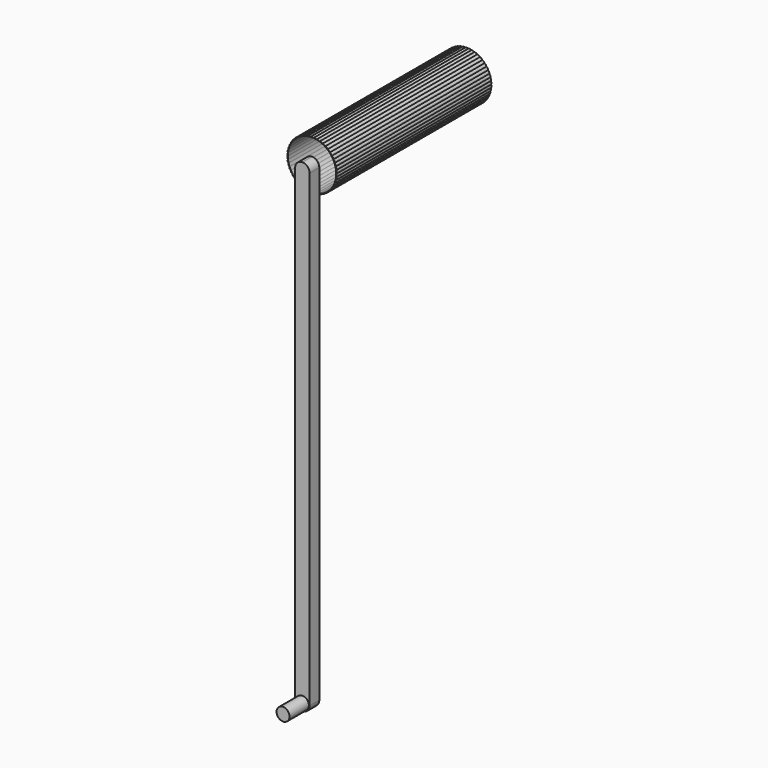
from build123d import *

# Parameters (mm, degrees)
F1_DEPTH = 6.35
F2_R     = 3.4021861277
F3_DEPTH = 12.7
F5_DEPTH = 101.6


with BuildPart() as f1:
    # F0 (on Front) → F1 (new body)
    with BuildSketch(Plane.XZ):
        with BuildLine():
            Line((3.81, -123.19), (3.81, 123.19))
            ThreePointArc((3.81, 123.19), (2.6940768363, 125.8840768363), (0, 127))
            ThreePointArc((0, 127), (-2.6940768363, 125.8840768363), (-3.81, 123.19))
            Line((-3.81, 123.19), (-3.81, -123.19))
            ThreePointArc((-3.81, -123.19), (-2.6940768363, -125.8840768363), (0, -127))
            ThreePointArc((0, -127), (2.6940768363, -125.8840768363), (3.81, -123.19))
        make_face()
    extrude(amount=F1_DEPTH)

    # F2 (on face) → F3 (join)
    with BuildSketch(Plane.XZ.offset(6.35)):
        with Locations((0, -123.19)):
            Circle(F2_R)
    extrude(amount=F3_DEPTH)

    # F4 (on face) → F5 (join)
    with BuildSketch(Plane(origin=(0, 0, 0), x_dir=(-1, 0, 0), z_dir=(0, 1, 0))):
        with BuildLine():
            ThreePointArc((12.6998142695, 123.2586842143), (12.6999535673, 123.2243422327), (12.7, 123.19))
            ThreePointArc((12.7, 123.19), (12.6999535673, 123.1556577673), (12.6998142695, 123.1213157857))
            ThreePointArc((12.6998142695, 123.1213157857), (12.7266922226, 123.1552100406), (12.7524002682, 123.19))
            ThreePointArc((12.7524002682, 123.19), (12.7266922226, 123.2247899594), (12.6998142695, 123.2586842143))
        make_face()
        with BuildLine():
            ThreePointArc((12.6082808554, 124.7135661693), (12.674939451, 123.987439598), (12.6998142695, 123.2586842143))
            ThreePointArc((12.6998142695, 123.2586842143), (12.7266922226, 123.2247899594), (12.7524002682, 123.19))
            ThreePointArc((12.7524002682, 123.19), (12.927890191, 123.5402156166), (12.9883026678, 123.9272531131))
            ThreePointArc((12.9883026678, 123.9272531131), (12.9012010608, 124.3894775086), (12.6518437831, 124.7882995613))
            ThreePointArc((12.6518437831, 124.7882995613), (12.6306987912, 124.7505618587), (12.6082808554, 124.7135661693))
        make_face()
        with BuildLine():
            ThreePointArc((12.7524002682, 123.19), (12.7266922226, 123.1552100406), (12.6998142695, 123.1213157857))
            ThreePointArc((12.6998142695, 123.1213157857), (12.674939451, 122.392560402), (12.6082808554, 121.6664338307))
            ThreePointArc((12.6082808554, 121.6664338307), (12.6306987912, 121.6294381413), (12.6518437831, 121.5917004387))
            ThreePointArc((12.6518437831, 121.5917004387), (12.9012010608, 121.9905224914), (12.9883026678, 122.4527468869))
            ThreePointArc((12.9883026678, 122.4527468869), (12.927890191, 122.8397843834), (12.7524002682, 123.19))
        make_face()
        with BuildLine():
            ThreePointArc((12.591064026, 124.8498514069), (12.5998567067, 124.7817320663), (12.6082808554, 124.7135661693))
            ThreePointArc((12.6082808554, 124.7135661693), (12.6306987912, 124.7505618587), (12.6518437831, 124.7882995613))
            ThreePointArc((12.6518437831, 124.7882995613), (12.621978115, 124.819593119), (12.591064026, 124.8498514069))
        make_face()
        with BuildLine():
            ThreePointArc((12.6518437831, 121.5917004387), (12.6306987912, 121.6294381413), (12.6082808554, 121.6664338307))
            ThreePointArc((12.6082808554, 121.6664338307), (12.5998567067, 121.5982679337), (12.591064026, 121.5301485931))
            ThreePointArc((12.591064026, 121.5301485931), (12.621978115, 121.560406881), (12.6518437831, 121.5917004387))
        make_face()
        with BuildLine():
            ThreePointArc((12.3179073204, 126.2817890042), (12.4750480843, 125.5697426952), (12.591064026, 124.8498514069))
            ThreePointArc((12.591064026, 124.8498514069), (12.621978115, 124.819593119), (12.6518437831, 124.7882995613))
            ThreePointArc((12.6518437831, 124.7882995613), (12.7650009986, 125.0798092799), (12.8034980346, 125.3901324174))
            ThreePointArc((12.8034980346, 125.3901324174), (12.6850389379, 125.9257195232), (12.3517601638, 126.3613929838))
            ThreePointArc((12.3517601638, 126.3613929838), (12.3355116947, 126.321302684), (12.3179073204, 126.2817890042))
        make_face()
        with BuildLine():
            ThreePointArc((12.6518437831, 121.5917004387), (12.621978115, 121.560406881), (12.591064026, 121.5301485931))
            ThreePointArc((12.591064026, 121.5301485931), (12.4750480843, 120.8102573048), (12.3179073204, 120.0982109958))
            ThreePointArc((12.3179073204, 120.0982109958), (12.3355116947, 120.058697316), (12.3517601638, 120.0186070162))
            ThreePointArc((12.3517601638, 120.0186070162), (12.6850389379, 120.4542804768), (12.8034980346, 120.9898675826))
            ThreePointArc((12.8034980346, 120.9898675826), (12.7650009986, 121.3001907201), (12.6518437831, 121.5917004387))
        make_face()
        with BuildLine():
            ThreePointArc((12.2837451813, 126.4148417511), (12.3010061463, 126.348361567), (12.3179073204, 126.2817890042))
            ThreePointArc((12.3179073204, 126.2817890042), (12.3355116947, 126.321302684), (12.3517601638, 126.3613929838))
            ThreePointArc((12.3517601638, 126.3613929838), (12.3182078726, 126.3886966216), (12.2837451813, 126.4148417511))
        make_face()
        with BuildLine():
            ThreePointArc((12.3517601638, 120.0186070162), (12.3355116947, 120.058697316), (12.3179073204, 120.0982109958))
            ThreePointArc((12.3179073204, 120.0982109958), (12.3010061463, 120.031638433), (12.2837451813, 119.9651582489))
            ThreePointArc((12.2837451813, 119.9651582489), (12.3182078726, 119.9913033784), (12.3517601638, 120.0186070162))
        make_face()
        with BuildLine():
            ThreePointArc((11.8332730286, 127.8012524797), (12.0784177569, 127.1145158286), (12.2837451813, 126.4148417511))
            ThreePointArc((12.2837451813, 126.4148417511), (12.3182078726, 126.3886966216), (12.3517601638, 126.3613929838))
            ThreePointArc((12.3517601638, 126.3613929838), (12.4153614728, 126.5859302444), (12.4368032475, 126.8183143191))
            ThreePointArc((12.4368032475, 126.8183143191), (12.2824420553, 127.4251504177), (11.856881908, 127.8844716444))
            ThreePointArc((11.856881908, 127.8844716444), (11.8457862099, 127.8426609954), (11.8332730286, 127.8012524797))
        make_face()
        with BuildLine():
            ThreePointArc((12.3517601638, 120.0186070162), (12.3182078726, 119.9913033784), (12.2837451813, 119.9651582489))
            ThreePointArc((12.2837451813, 119.9651582489), (12.0784177569, 119.2654841714), (11.8332730286, 118.5787475203))
            ThreePointArc((11.8332730286, 118.5787475203), (11.8457862099, 118.5373390046), (11.856881908, 118.4955283556))
            ThreePointArc((11.856881908, 118.4955283556), (12.2824420553, 118.9548495823), (12.4368032475, 119.5616856809))
            ThreePointArc((12.4368032475, 119.5616856809), (12.4153614728, 119.7940697556), (12.3517601638, 120.0186070162))
        make_face()
        with BuildLine():
            ThreePointArc((11.7827043372, 127.9289744146), (11.8081613708, 127.8651818191), (11.8332730286, 127.8012524797))
            ThreePointArc((11.8332730286, 127.8012524797), (11.8457862099, 127.8426609954), (11.856881908, 127.8844716444))
            ThreePointArc((11.856881908, 127.8844716444), (11.8201721335, 127.9073547678), (11.7827043372, 127.9289744146))
        make_face()
        with BuildLine():
            ThreePointArc((11.1620209523, 129.2479937489), (11.4913035663, 128.5973970029), (11.7827043372, 127.9289744146))
            ThreePointArc((11.7827043372, 127.9289744146), (11.8201721335, 127.9073547678), (11.856881908, 127.8844716444))
            ThreePointArc((11.856881908, 127.8844716444), (11.8846873001, 128.0357476383), (11.8940013026, 128.1892755365))
            ThreePointArc((11.8940013026, 128.1892755365), (11.6993350981, 128.8649657231), (11.1750135416, 129.3335156828))
            ThreePointArc((11.1750135416, 129.3335156828), (11.1692456003, 129.2906440636), (11.1620209523, 129.2479937489))
        make_face()
        with BuildLine():
            ThreePointArc((11.856881908, 118.4955283556), (11.8457862099, 118.5373390046), (11.8332730286, 118.5787475203))
            ThreePointArc((11.8332730286, 118.5787475203), (11.8081613708, 118.5148181809), (11.7827043372, 118.4510255854))
            ThreePointArc((11.7827043372, 118.4510255854), (11.8201721335, 118.4726452322), (11.856881908, 118.4955283556))
        make_face()
        with BuildLine():
            ThreePointArc((11.856881908, 118.4955283556), (11.8201721335, 118.4726452322), (11.7827043372, 118.4510255854))
            ThreePointArc((11.7827043372, 118.4510255854), (11.4913035663, 117.7826029971), (11.1620209523, 117.1320062511))
            ThreePointArc((11.1620209523, 117.1320062511), (11.1692456003, 117.0893559364), (11.1750135416, 117.0464843172))
            ThreePointArc((11.1750135416, 117.0464843172), (11.6993350981, 117.5150342769), (11.8940013026, 118.1907244635))
            ThreePointArc((11.8940013026, 118.1907244635), (11.8846873001, 118.3442523617), (11.856881908, 118.4955283556))
        make_face()
        with BuildLine():
            ThreePointArc((11.095843207, 129.3683706206), (11.1290948366, 129.3082716611), (11.1620209523, 129.2479937489))
            ThreePointArc((11.1620209523, 129.2479937489), (11.1692456003, 129.2906440636), (11.1750135416, 129.3335156828))
            ThreePointArc((11.1750135416, 129.3335156828), (11.1357252188, 129.3516174112), (11.095843207, 129.3683706206))
        make_face()
        with BuildLine():
            ThreePointArc((10.3147371377, 130.5991968378), (10.7229646539, 129.9950002962), (11.095843207, 129.3683706206))
            ThreePointArc((11.095843207, 129.3683706206), (11.1357252188, 129.3516174112), (11.1750135416, 129.3335156828))
            ThreePointArc((11.1750135416, 129.3335156828), (11.1814909288, 129.4073293751), (11.1836525106, 129.4813951924))
            ThreePointArc((11.1836525106, 129.4813951924), (10.9444374426, 130.2232728264), (10.3169085361, 130.685672809))
            ThreePointArc((10.3169085361, 130.685672809), (10.3169467562, 130.6799843554), (10.3169594964, 130.6742957877))
            ThreePointArc((10.3169594964, 130.6742957877), (10.3164037851, 130.6367298751), (10.3147371377, 130.5991968378))
        make_face()
        with BuildLine():
            ThreePointArc((11.1750135416, 117.0464843172), (11.1692456003, 117.0893559364), (11.1620209523, 117.1320062511))
            ThreePointArc((11.1620209523, 117.1320062511), (11.1290948366, 117.0717283389), (11.095843207, 117.0116293794))
            ThreePointArc((11.095843207, 117.0116293794), (11.1357252188, 117.0283825888), (11.1750135416, 117.0464843172))
        make_face()
        with BuildLine():
            ThreePointArc((11.1750135416, 117.0464843172), (11.1357252188, 117.0283825888), (11.095843207, 117.0116293794))
            ThreePointArc((11.095843207, 117.0116293794), (10.7229646539, 116.3849997038), (10.3147371377, 115.7808031622))
            ThreePointArc((10.3147371377, 115.7808031622), (10.3164037851, 115.7432701249), (10.3169594964, 115.7057042123))
            ThreePointArc((10.3169594964, 115.7057042123), (10.3169467562, 115.7000156446), (10.3169085361, 115.694327191))
            ThreePointArc((10.3169085361, 115.694327191), (10.9444374426, 116.1567271736), (11.1836525106, 116.8986048076))
            ThreePointArc((11.1836525106, 116.8986048076), (11.1814909288, 116.9726706249), (11.1750135416, 117.0464843172))
        make_face()
        with BuildLine():
            ThreePointArc((10.2339940011, 130.7103302311), (10.2745158286, 130.6548727041), (10.3147371377, 130.5991968378))
            ThreePointArc((10.3147371377, 130.5991968378), (10.3164037851, 130.6367298751), (10.3169594964, 130.6742957877))
            ThreePointArc((10.3169594964, 130.6742957877), (10.3169467562, 130.6799843554), (10.3169085361, 130.685672809))
            ThreePointArc((10.3169085361, 130.685672809), (10.2756612652, 130.6987076673), (10.2339940011, 130.7103302311))
        make_face()
        with BuildLine():
            ThreePointArc((9.3047837567, 131.8335524665), (9.7855181833, 131.2852846698), (10.2339940011, 130.7103302311))
            ThreePointArc((10.2339940011, 130.7103302311), (10.2756612652, 130.6987076673), (10.3169085361, 130.685672809))
            ThreePointArc((10.3169085361, 130.685672809), (10.0255113147, 131.4838242547), (9.2960997199, 131.9196186973))
            ThreePointArc((9.2960997199, 131.9196186973), (9.3011747271, 131.8766595401), (9.3047837567, 131.8335524665))
        make_face()
        with BuildLine():
            ThreePointArc((10.3169594964, 115.7057042123), (10.3164037851, 115.7432701249), (10.3147371377, 115.7808031622))
            ThreePointArc((10.3147371377, 115.7808031622), (10.2745158286, 115.7251272959), (10.2339940011, 115.6696697689))
            ThreePointArc((10.2339940011, 115.6696697689), (10.2756612652, 115.6812923327), (10.3169085361, 115.694327191))
            ThreePointArc((10.3169085361, 115.694327191), (10.3169467562, 115.7000156446), (10.3169594964, 115.7057042123))
        make_face()
        with BuildLine():
            ThreePointArc((10.3169085361, 115.694327191), (10.2756612652, 115.6812923327), (10.2339940011, 115.6696697689))
            ThreePointArc((10.2339940011, 115.6696697689), (9.7855181833, 115.0947153302), (9.3047837567, 114.5464475335))
            ThreePointArc((9.3047837567, 114.5464475335), (9.3011747271, 114.5033404599), (9.2960997199, 114.4603813027))
            ThreePointArc((9.2960997199, 114.4603813027), (10.0255113147, 114.8961757453), (10.3169085361, 115.694327191))
        make_face()
        with BuildLine():
            ThreePointArc((9.2107485964, 131.9336897414), (9.2579015683, 131.8837482453), (9.3047837567, 131.8335524665))
            ThreePointArc((9.3047837567, 131.8335524665), (9.3011747271, 131.8766595401), (9.2960997199, 131.9196186973))
            ThreePointArc((9.2960997199, 131.9196186973), (9.2535439951, 131.927381118), (9.2107485964, 131.9336897414))
        make_face()
        with BuildLine():
            ThreePointArc((8.1480883774, 132.9315941095), (8.6937482453, 132.4479015683), (9.2107485964, 131.9336897414))
            ThreePointArc((9.2107485964, 131.9336897414), (9.2535439951, 131.927381118), (9.2960997199, 131.9196186973))
            ThreePointArc((9.2960997199, 131.9196186973), (8.9069653511, 132.6749547244), (8.1286858578, 133.0158932838))
            ThreePointArc((8.1286858578, 133.0158932838), (8.1391050572, 132.9739089395), (8.1480883774, 132.9315941095))
        make_face()
        with BuildLine():
            ThreePointArc((9.2960997199, 114.4603813027), (9.2535439951, 114.452618882), (9.2107485964, 114.4463102586))
            ThreePointArc((9.2107485964, 114.4463102586), (8.6937482453, 113.9320984317), (8.1480883774, 113.4484058905))
            ThreePointArc((8.1480883774, 113.4484058905), (8.1391050572, 113.4060910605), (8.1286858578, 113.3641067162))
            ThreePointArc((8.1286858578, 113.3641067162), (8.9069653511, 113.7050452756), (9.2960997199, 114.4603813027))
        make_face()
        with BuildLine():
            ThreePointArc((9.3047837567, 114.5464475335), (9.2579015683, 114.4962517547), (9.2107485964, 114.4463102586))
            ThreePointArc((9.2107485964, 114.4463102586), (9.2535439951, 114.452618882), (9.2960997199, 114.4603813027))
            ThreePointArc((9.2960997199, 114.4603813027), (9.3011747271, 114.5033404599), (9.3047837567, 114.5464475335))
        make_face()
        with BuildLine():
            ThreePointArc((8.042244184, 133.0191560414), (8.0952846698, 132.9755181833), (8.1480883774, 132.9315941095))
            ThreePointArc((8.1480883774, 132.9315941095), (8.1391050572, 132.9739089395), (8.1286858578, 133.0158932838))
            ThreePointArc((8.1286858578, 133.0158932838), (8.0854928084, 133.0182608489), (8.042244184, 133.0191560414))
        make_face()
        with BuildLine():
            ThreePointArc((6.862892777, 133.876004994), (7.4648727041, 133.4645158286), (8.042244184, 133.0191560414))
            ThreePointArc((8.042244184, 133.0191560414), (8.0854928084, 133.0182608489), (8.1286858578, 133.0158932838))
            ThreePointArc((8.1286858578, 133.0158932838), (7.6479512231, 133.7165017921), (6.833077764, 133.9572076636))
            ThreePointArc((6.833077764, 133.9572076636), (6.8486768385, 133.9168602504), (6.862892777, 133.876004994))
        make_face()
        with BuildLine():
            ThreePointArc((8.1286858578, 113.3641067162), (8.0854928084, 113.3617391511), (8.042244184, 113.3608439586))
            ThreePointArc((8.042244184, 113.3608439586), (7.4648727041, 112.9154841714), (6.862892777, 112.503995006))
            ThreePointArc((6.862892777, 112.503995006), (6.8486768385, 112.4631397496), (6.833077764, 112.4227923364))
            ThreePointArc((6.833077764, 112.4227923364), (7.6479512231, 112.6634982079), (8.1286858578, 113.3641067162))
        make_face()
        with BuildLine():
            ThreePointArc((8.1480883774, 113.4484058905), (8.0952846698, 113.4044818167), (8.042244184, 113.3608439586))
            ThreePointArc((8.042244184, 113.3608439586), (8.0854928084, 113.3617391511), (8.1286858578, 113.3641067162))
            ThreePointArc((8.1286858578, 113.3641067162), (8.1391050572, 113.4060910605), (8.1480883774, 113.4484058905))
        make_face()
        with BuildLine():
            ThreePointArc((6.7469087766, 133.9496106788), (6.8050002962, 133.9129646539), (6.862892777, 133.876004994))
            ThreePointArc((6.862892777, 133.876004994), (6.8486768385, 133.9168602504), (6.833077764, 133.9572076636))
            ThreePointArc((6.833077764, 133.9572076636), (6.7899285701, 133.9541430352), (6.7469087766, 133.9496106788))
        make_face()
        with BuildLine():
            ThreePointArc((5.4694652579, 134.6518911962), (6.1182716611, 134.3190948366), (6.7469087766, 133.9496106788))
            ThreePointArc((6.7469087766, 133.9496106788), (6.7899285701, 133.9541430352), (6.833077764, 133.9572076636))
            ThreePointArc((6.833077764, 133.9572076636), (6.2683243356, 134.5920396383), (5.429707952, 134.7287167466))
            ThreePointArc((5.429707952, 134.7287167466), (5.4502408949, 134.6906425671), (5.4694652579, 134.6518911962))
        make_face()
        with BuildLine():
            ThreePointArc((6.833077764, 112.4227923364), (6.7899285701, 112.4258569648), (6.7469087766, 112.4303893212))
            ThreePointArc((6.7469087766, 112.4303893212), (6.1182716611, 112.0609051634), (5.4694652579, 111.7281088038))
            ThreePointArc((5.4694652579, 111.7281088038), (5.4502408949, 111.6893574329), (5.429707952, 111.6512832534))
            ThreePointArc((5.429707952, 111.6512832534), (6.2683243356, 111.7879603617), (6.833077764, 112.4227923364))
        make_face()
        with BuildLine():
            ThreePointArc((6.862892777, 112.503995006), (6.8050002962, 112.4670353461), (6.7469087766, 112.4303893212))
            ThreePointArc((6.7469087766, 112.4303893212), (6.7899285701, 112.4258569648), (6.833077764, 112.4227923364))
            ThreePointArc((6.833077764, 112.4227923364), (6.8486768385, 112.4631397496), (6.862892777, 112.503995006))
        make_face()
        with BuildLine():
            ThreePointArc((5.3451705874, 134.7103798284), (5.4073970029, 134.6813035663), (5.4694652579, 134.6518911962))
            ThreePointArc((5.4694652579, 134.6518911962), (5.4502408949, 134.6906425671), (5.429707952, 134.7287167466))
            ThreePointArc((5.429707952, 134.7287167466), (5.3872831021, 134.7202682557), (5.3451705874, 134.7103798284))
        make_face()
        with BuildLine():
            ThreePointArc((3.9897810043, 135.2470165272), (4.6751818191, 134.9981613708), (5.3451705874, 134.7103798284))
            ThreePointArc((5.3451705874, 134.7103798284), (5.3872831021, 134.7202682557), (5.429707952, 134.7287167466))
            ThreePointArc((5.429707952, 134.7287167466), (4.7898422289, 135.2877605081), (3.940708402, 135.3182533735))
            ThreePointArc((3.940708402, 135.3182533735), (3.9658513965, 135.2830528805), (3.9897810043, 135.2470165272))
        make_face()
        with BuildLine():
            ThreePointArc((5.429707952, 111.6512832534), (5.3872831021, 111.6597317443), (5.3451705874, 111.6696201716))
            ThreePointArc((5.3451705874, 111.6696201716), (4.6751818191, 111.3818386292), (3.9897810043, 111.1329834728))
            ThreePointArc((3.9897810043, 111.1329834728), (3.9658513965, 111.0969471195), (3.940708402, 111.0617466265))
            ThreePointArc((3.940708402, 111.0617466265), (4.7898422289, 111.0922394919), (5.429707952, 111.6512832534))
        make_face()
        with BuildLine():
            ThreePointArc((5.4694652579, 111.7281088038), (5.4073970029, 111.6986964337), (5.3451705874, 111.6696201716))
            ThreePointArc((5.3451705874, 111.6696201716), (5.3872831021, 111.6597317443), (5.429707952, 111.6512832534))
            ThreePointArc((5.429707952, 111.6512832534), (5.4502408949, 111.6893574329), (5.4694652579, 111.7281088038))
        make_face()
        with BuildLine():
            ThreePointArc((3.859135865, 135.2894657062), (3.9245158286, 135.2684177569), (3.9897810043, 135.2470165272))
            ThreePointArc((3.9897810043, 135.2470165272), (3.9658513965, 135.2830528805), (3.940708402, 135.3182533735))
            ThreePointArc((3.940708402, 135.3182533735), (3.8996769614, 135.3045542579), (3.859135865, 135.2894657062))
        make_face()
        with BuildLine():
            ThreePointArc((2.4471755209, 135.6519955051), (3.158361567, 135.4910061463), (3.859135865, 135.2894657062))
            ThreePointArc((3.859135865, 135.2894657062), (3.8996769614, 135.3045542579), (3.940708402, 135.3182533735))
            ThreePointArc((3.940708402, 135.3182533735), (3.2358214489, 135.7926924679), (2.3895615264, 135.7165201997))
            ThreePointArc((2.3895615264, 135.7165201997), (2.4189180525, 135.6847485259), (2.4471755209, 135.6519955051))
        make_face()
        with BuildLine():
            ThreePointArc((3.940708402, 111.0617466265), (3.8996769614, 111.0754457421), (3.859135865, 111.0905342938))
            ThreePointArc((3.859135865, 111.0905342938), (3.158361567, 110.8889938537), (2.4471755209, 110.7280044949))
            ThreePointArc((2.4471755209, 110.7280044949), (2.4189180525, 110.6952514741), (2.3895615264, 110.6634798003))
            ThreePointArc((2.3895615264, 110.6634798003), (3.2358214489, 110.5873075321), (3.940708402, 111.0617466265))
        make_face()
        with BuildLine():
            ThreePointArc((3.9897810043, 111.1329834728), (3.9245158286, 111.1115822431), (3.859135865, 111.0905342938))
            ThreePointArc((3.859135865, 111.0905342938), (3.8996769614, 111.0754457421), (3.940708402, 111.0617466265))
            ThreePointArc((3.940708402, 111.0617466265), (3.9658513965, 111.0969471195), (3.9897810043, 111.1329834728))
        make_face()
        with BuildLine():
            ThreePointArc((2.3122402647, 135.6777357819), (2.3797426952, 135.6650480843), (2.4471755209, 135.6519955051))
            ThreePointArc((2.4471755209, 135.6519955051), (2.4189180525, 135.6847485259), (2.3895615264, 135.7165201997))
            ThreePointArc((2.3895615264, 135.7165201997), (2.3505705854, 135.6977865025), (2.3122402647, 135.6777357819))
        make_face()
        with BuildLine():
            ThreePointArc((0.8659766176, 135.8604413695), (1.5917320663, 135.7898567067), (2.3122402647, 135.6777357819))
            ThreePointArc((2.3122402647, 135.6777357819), (2.3505705854, 135.6977865025), (2.3895615264, 135.7165201997))
            ThreePointArc((2.3895615264, 135.7165201997), (1.6307698317, 136.0988724389), (0.8007298381, 135.9172363193))
            ThreePointArc((0.8007298381, 135.9172363193), (0.8338369259, 135.889394523), (0.8659766176, 135.8604413695))
        make_face()
        with BuildLine():
            ThreePointArc((2.3895615264, 110.6634798003), (2.3505705854, 110.6822134975), (2.3122402647, 110.7022642181))
            ThreePointArc((2.3122402647, 110.7022642181), (1.5917320663, 110.5901432933), (0.8659766176, 110.5195586305))
            ThreePointArc((0.8659766176, 110.5195586305), (0.8338369259, 110.490605477), (0.8007298381, 110.4627636807))
            ThreePointArc((0.8007298381, 110.4627636807), (1.6307698317, 110.2811275611), (2.3895615264, 110.6634798003))
        make_face()
        with BuildLine():
            ThreePointArc((2.4471755209, 110.7280044949), (2.3797426952, 110.7149519157), (2.3122402647, 110.7022642181))
            ThreePointArc((2.3122402647, 110.7022642181), (2.3505705854, 110.6822134975), (2.3895615264, 110.6634798003))
            ThreePointArc((2.3895615264, 110.6634798003), (2.4189180525, 110.6952514741), (2.4471755209, 110.7280044949))
        make_face()
        with BuildLine():
            ThreePointArc((0.7288792542, 135.8690668045), (0.797439598, 135.864939451), (0.8659766176, 135.8604413695))
            ThreePointArc((0.8659766176, 135.8604413695), (0.8338369259, 135.889394523), (0.8007298381, 135.9172363193))
            ThreePointArc((0.8007298381, 135.9172363193), (0.7643943072, 135.8937634822), (0.7288792542, 135.8690668045))
        make_face()
        with BuildLine():
            ThreePointArc((-0.7288792542, 135.8690668045), (0, 135.89), (0.7288792542, 135.8690668045))
            ThreePointArc((0.7288792542, 135.8690668045), (0.7643943072, 135.8937634822), (0.8007298381, 135.9172363193))
            ThreePointArc((0.8007298381, 135.9172363193), (0, 136.2014717803), (-0.8007298381, 135.9172363193))
            ThreePointArc((-0.8007298381, 135.9172363193), (-0.7643943072, 135.8937634822), (-0.7288792542, 135.8690668045))
        make_face()
        with BuildLine():
            ThreePointArc((0.8007298381, 110.4627636807), (0.7643943072, 110.4862365178), (0.7288792542, 110.5109331955))
            ThreePointArc((0.7288792542, 110.5109331955), (0, 110.49), (-0.7288792542, 110.5109331955))
            ThreePointArc((-0.7288792542, 110.5109331955), (-0.7643943072, 110.4862365178), (-0.8007298381, 110.4627636807))
            ThreePointArc((-0.8007298381, 110.4627636807), (0, 110.1785282197), (0.8007298381, 110.4627636807))
        make_face()
        with BuildLine():
            ThreePointArc((0.8659766176, 110.5195586305), (0.797439598, 110.515060549), (0.7288792542, 110.5109331955))
            ThreePointArc((0.7288792542, 110.5109331955), (0.7643943072, 110.4862365178), (0.8007298381, 110.4627636807))
            ThreePointArc((0.8007298381, 110.4627636807), (0.8338369259, 110.490605477), (0.8659766176, 110.5195586305))
        make_face()
        with BuildLine():
            ThreePointArc((-0.8007298381, 135.9172363193), (-0.8338369259, 135.889394523), (-0.8659766176, 135.8604413695))
            ThreePointArc((-0.8659766176, 135.8604413695), (-0.797439598, 135.864939451), (-0.7288792542, 135.8690668045))
            ThreePointArc((-0.7288792542, 135.8690668045), (-0.7643943072, 135.8937634822), (-0.8007298381, 135.9172363193))
        make_face()
        with BuildLine():
            ThreePointArc((-2.3122402647, 135.6777357819), (-1.5917320663, 135.7898567067), (-0.8659766176, 135.8604413695))
            ThreePointArc((-0.8659766176, 135.8604413695), (-0.8338369259, 135.889394523), (-0.8007298381, 135.9172363193))
            ThreePointArc((-0.8007298381, 135.9172363193), (-1.6307698317, 136.0988724389), (-2.3895615264, 135.7165201997))
            ThreePointArc((-2.3895615264, 135.7165201997), (-2.3505705854, 135.6977865025), (-2.3122402647, 135.6777357819))
        make_face()
        with BuildLine():
            ThreePointArc((-0.8007298381, 110.4627636807), (-0.8338369259, 110.490605477), (-0.8659766176, 110.5195586305))
            ThreePointArc((-0.8659766176, 110.5195586305), (-1.5917320663, 110.5901432933), (-2.3122402647, 110.7022642181))
            ThreePointArc((-2.3122402647, 110.7022642181), (-2.3505705854, 110.6822134975), (-2.3895615264, 110.6634798003))
            ThreePointArc((-2.3895615264, 110.6634798003), (-1.6307698317, 110.2811275611), (-0.8007298381, 110.4627636807))
        make_face()
        with BuildLine():
            ThreePointArc((-0.7288792542, 110.5109331955), (-0.797439598, 110.515060549), (-0.8659766176, 110.5195586305))
            ThreePointArc((-0.8659766176, 110.5195586305), (-0.8338369259, 110.490605477), (-0.8007298381, 110.4627636807))
            ThreePointArc((-0.8007298381, 110.4627636807), (-0.7643943072, 110.4862365178), (-0.7288792542, 110.5109331955))
        make_face()
        with BuildLine():
            ThreePointArc((-2.4471755209, 135.6519955051), (-2.3797426952, 135.6650480843), (-2.3122402647, 135.6777357819))
            ThreePointArc((-2.3122402647, 135.6777357819), (-2.3505705854, 135.6977865025), (-2.3895615264, 135.7165201997))
            ThreePointArc((-2.3895615264, 135.7165201997), (-2.4189180525, 135.6847485259), (-2.4471755209, 135.6519955051))
        make_face()
        with BuildLine():
            ThreePointArc((-3.859135865, 135.2894657062), (-3.158361567, 135.4910061463), (-2.4471755209, 135.6519955051))
            ThreePointArc((-2.4471755209, 135.6519955051), (-2.4189180525, 135.6847485259), (-2.3895615264, 135.7165201997))
            ThreePointArc((-2.3895615264, 135.7165201997), (-3.2358214489, 135.7926924679), (-3.940708402, 135.3182533735))
            ThreePointArc((-3.940708402, 135.3182533735), (-3.8996769614, 135.3045542579), (-3.859135865, 135.2894657062))
        make_face()
        with BuildLine():
            ThreePointArc((-2.3895615264, 110.6634798003), (-2.4189180525, 110.6952514741), (-2.4471755209, 110.7280044949))
            ThreePointArc((-2.4471755209, 110.7280044949), (-3.158361567, 110.8889938537), (-3.859135865, 111.0905342938))
            ThreePointArc((-3.859135865, 111.0905342938), (-3.8996769614, 111.0754457421), (-3.940708402, 111.0617466265))
            ThreePointArc((-3.940708402, 111.0617466265), (-3.2358214489, 110.5873075321), (-2.3895615264, 110.6634798003))
        make_face()
        with BuildLine():
            ThreePointArc((-2.3122402647, 110.7022642181), (-2.3797426952, 110.7149519157), (-2.4471755209, 110.7280044949))
            ThreePointArc((-2.4471755209, 110.7280044949), (-2.4189180525, 110.6952514741), (-2.3895615264, 110.6634798003))
            ThreePointArc((-2.3895615264, 110.6634798003), (-2.3505705854, 110.6822134975), (-2.3122402647, 110.7022642181))
        make_face()
        with BuildLine():
            ThreePointArc((-3.9897810043, 135.2470165272), (-3.9245158286, 135.2684177569), (-3.859135865, 135.2894657062))
            ThreePointArc((-3.859135865, 135.2894657062), (-3.8996769614, 135.3045542579), (-3.940708402, 135.3182533735))
            ThreePointArc((-3.940708402, 135.3182533735), (-3.9658513965, 135.2830528805), (-3.9897810043, 135.2470165272))
        make_face()
        with BuildLine():
            ThreePointArc((-5.3451705874, 134.7103798284), (-4.6751818191, 134.9981613708), (-3.9897810043, 135.2470165272))
            ThreePointArc((-3.9897810043, 135.2470165272), (-3.9658513965, 135.2830528805), (-3.940708402, 135.3182533735))
            ThreePointArc((-3.940708402, 135.3182533735), (-4.7898422289, 135.2877605081), (-5.429707952, 134.7287167466))
            ThreePointArc((-5.429707952, 134.7287167466), (-5.3872831021, 134.7202682557), (-5.3451705874, 134.7103798284))
        make_face()
        with BuildLine():
            ThreePointArc((-3.940708402, 111.0617466265), (-3.9658513965, 111.0969471195), (-3.9897810043, 111.1329834728))
            ThreePointArc((-3.9897810043, 111.1329834728), (-4.6751818191, 111.3818386292), (-5.3451705874, 111.6696201716))
            ThreePointArc((-5.3451705874, 111.6696201716), (-5.3872831021, 111.6597317443), (-5.429707952, 111.6512832534))
            ThreePointArc((-5.429707952, 111.6512832534), (-4.7898422289, 111.0922394919), (-3.940708402, 111.0617466265))
        make_face()
        with BuildLine():
            ThreePointArc((-3.859135865, 111.0905342938), (-3.9245158286, 111.1115822431), (-3.9897810043, 111.1329834728))
            ThreePointArc((-3.9897810043, 111.1329834728), (-3.9658513965, 111.0969471195), (-3.940708402, 111.0617466265))
            ThreePointArc((-3.940708402, 111.0617466265), (-3.8996769614, 111.0754457421), (-3.859135865, 111.0905342938))
        make_face()
        with BuildLine():
            ThreePointArc((-5.4694652579, 134.6518911962), (-5.4073970029, 134.6813035663), (-5.3451705874, 134.7103798284))
            ThreePointArc((-5.3451705874, 134.7103798284), (-5.3872831021, 134.7202682557), (-5.429707952, 134.7287167466))
            ThreePointArc((-5.429707952, 134.7287167466), (-5.4502408949, 134.6906425671), (-5.4694652579, 134.6518911962))
        make_face()
        with BuildLine():
            ThreePointArc((-6.7469087766, 133.9496106788), (-6.1182716611, 134.3190948366), (-5.4694652579, 134.6518911962))
            ThreePointArc((-5.4694652579, 134.6518911962), (-5.4502408949, 134.6906425671), (-5.429707952, 134.7287167466))
            ThreePointArc((-5.429707952, 134.7287167466), (-6.2683243356, 134.5920396383), (-6.833077764, 133.9572076636))
            ThreePointArc((-6.833077764, 133.9572076636), (-6.7899285701, 133.9541430352), (-6.7469087766, 133.9496106788))
        make_face()
        with BuildLine():
            ThreePointArc((-5.429707952, 111.6512832534), (-5.4502408949, 111.6893574329), (-5.4694652579, 111.7281088038))
            ThreePointArc((-5.4694652579, 111.7281088038), (-6.1182716611, 112.0609051634), (-6.7469087766, 112.4303893212))
            ThreePointArc((-6.7469087766, 112.4303893212), (-6.7899285701, 112.4258569648), (-6.833077764, 112.4227923364))
            ThreePointArc((-6.833077764, 112.4227923364), (-6.2683243356, 111.7879603617), (-5.429707952, 111.6512832534))
        make_face()
        with BuildLine():
            ThreePointArc((-5.3451705874, 111.6696201716), (-5.4073970029, 111.6986964337), (-5.4694652579, 111.7281088038))
            ThreePointArc((-5.4694652579, 111.7281088038), (-5.4502408949, 111.6893574329), (-5.429707952, 111.6512832534))
            ThreePointArc((-5.429707952, 111.6512832534), (-5.3872831021, 111.6597317443), (-5.3451705874, 111.6696201716))
        make_face()
        with BuildLine():
            ThreePointArc((-6.862892777, 133.876004994), (-6.8050002962, 133.9129646539), (-6.7469087766, 133.9496106788))
            ThreePointArc((-6.7469087766, 133.9496106788), (-6.7899285701, 133.9541430352), (-6.833077764, 133.9572076636))
            ThreePointArc((-6.833077764, 133.9572076636), (-6.8486768385, 133.9168602504), (-6.862892777, 133.876004994))
        make_face()
        with BuildLine():
            ThreePointArc((-8.042244184, 133.0191560414), (-7.4648727041, 133.4645158286), (-6.862892777, 133.876004994))
            ThreePointArc((-6.862892777, 133.876004994), (-6.8486768385, 133.9168602504), (-6.833077764, 133.9572076636))
            ThreePointArc((-6.833077764, 133.9572076636), (-7.6479512231, 133.7165017921), (-8.1286858578, 133.0158932838))
            ThreePointArc((-8.1286858578, 133.0158932838), (-8.0854928084, 133.0182608489), (-8.042244184, 133.0191560414))
        make_face()
        with BuildLine():
            ThreePointArc((-6.833077764, 112.4227923364), (-6.8486768385, 112.4631397496), (-6.862892777, 112.503995006))
            ThreePointArc((-6.862892777, 112.503995006), (-7.4648727041, 112.9154841714), (-8.042244184, 113.3608439586))
            ThreePointArc((-8.042244184, 113.3608439586), (-8.0854928084, 113.3617391511), (-8.1286858578, 113.3641067162))
            ThreePointArc((-8.1286858578, 113.3641067162), (-7.6479512231, 112.6634982079), (-6.833077764, 112.4227923364))
        make_face()
        with BuildLine():
            ThreePointArc((-6.7469087766, 112.4303893212), (-6.8050002962, 112.4670353461), (-6.862892777, 112.503995006))
            ThreePointArc((-6.862892777, 112.503995006), (-6.8486768385, 112.4631397496), (-6.833077764, 112.4227923364))
            ThreePointArc((-6.833077764, 112.4227923364), (-6.7899285701, 112.4258569648), (-6.7469087766, 112.4303893212))
        make_face()
        with BuildLine():
            ThreePointArc((-8.1480883774, 132.9315941095), (-8.0952846698, 132.9755181833), (-8.042244184, 133.0191560414))
            ThreePointArc((-8.042244184, 133.0191560414), (-8.0854928084, 133.0182608489), (-8.1286858578, 133.0158932838))
            ThreePointArc((-8.1286858578, 133.0158932838), (-8.1391050572, 132.9739089395), (-8.1480883774, 132.9315941095))
        make_face()
        with BuildLine():
            ThreePointArc((-9.2107485964, 131.9336897414), (-8.6937482453, 132.4479015683), (-8.1480883774, 132.9315941095))
            ThreePointArc((-8.1480883774, 132.9315941095), (-8.1391050572, 132.9739089395), (-8.1286858578, 133.0158932838))
            ThreePointArc((-8.1286858578, 133.0158932838), (-8.9069653511, 132.6749547244), (-9.2960997199, 131.9196186973))
            ThreePointArc((-9.2960997199, 131.9196186973), (-9.2535439951, 131.927381118), (-9.2107485964, 131.9336897414))
        make_face()
        with BuildLine():
            ThreePointArc((-8.1286858578, 113.3641067162), (-8.1391050572, 113.4060910605), (-8.1480883774, 113.4484058905))
            ThreePointArc((-8.1480883774, 113.4484058905), (-8.6937482453, 113.9320984317), (-9.2107485964, 114.4463102586))
            ThreePointArc((-9.2107485964, 114.4463102586), (-9.2535439951, 114.452618882), (-9.2960997199, 114.4603813027))
            ThreePointArc((-9.2960997199, 114.4603813027), (-8.9069653511, 113.7050452756), (-8.1286858578, 113.3641067162))
        make_face()
        with BuildLine():
            ThreePointArc((-8.042244184, 113.3608439586), (-8.0952846698, 113.4044818167), (-8.1480883774, 113.4484058905))
            ThreePointArc((-8.1480883774, 113.4484058905), (-8.1391050572, 113.4060910605), (-8.1286858578, 113.3641067162))
            ThreePointArc((-8.1286858578, 113.3641067162), (-8.0854928084, 113.3617391511), (-8.042244184, 113.3608439586))
        make_face()
        with BuildLine():
            ThreePointArc((-9.3047837567, 131.8335524665), (-9.2579015683, 131.8837482453), (-9.2107485964, 131.9336897414))
            ThreePointArc((-9.2107485964, 131.9336897414), (-9.2535439951, 131.927381118), (-9.2960997199, 131.9196186973))
            ThreePointArc((-9.2960997199, 131.9196186973), (-9.3011747271, 131.8766595401), (-9.3047837567, 131.8335524665))
        make_face()
        with BuildLine():
            ThreePointArc((-10.2339940011, 130.7103302311), (-9.7855181833, 131.2852846698), (-9.3047837567, 131.8335524665))
            ThreePointArc((-9.3047837567, 131.8335524665), (-9.3011747271, 131.8766595401), (-9.2960997199, 131.9196186973))
            ThreePointArc((-9.2960997199, 131.9196186973), (-10.0255113147, 131.4838242547), (-10.3169085361, 130.685672809))
            ThreePointArc((-10.3169085361, 130.685672809), (-10.2756612652, 130.6987076673), (-10.2339940011, 130.7103302311))
        make_face()
        with BuildLine():
            ThreePointArc((-9.2960997199, 114.4603813027), (-9.3011747271, 114.5033404599), (-9.3047837567, 114.5464475335))
            ThreePointArc((-9.3047837567, 114.5464475335), (-9.7855181833, 115.0947153302), (-10.2339940011, 115.6696697689))
            ThreePointArc((-10.2339940011, 115.6696697689), (-10.2756612652, 115.6812923327), (-10.3169085361, 115.694327191))
            ThreePointArc((-10.3169085361, 115.694327191), (-10.0255113147, 114.8961757453), (-9.2960997199, 114.4603813027))
        make_face()
        with BuildLine():
            ThreePointArc((-9.2107485964, 114.4463102586), (-9.2579015683, 114.4962517547), (-9.3047837567, 114.5464475335))
            ThreePointArc((-9.3047837567, 114.5464475335), (-9.3011747271, 114.5033404599), (-9.2960997199, 114.4603813027))
            ThreePointArc((-9.2960997199, 114.4603813027), (-9.2535439951, 114.452618882), (-9.2107485964, 114.4463102586))
        make_face()
        with BuildLine():
            ThreePointArc((-10.3147371377, 130.5991968378), (-10.2745158286, 130.6548727041), (-10.2339940011, 130.7103302311))
            ThreePointArc((-10.2339940011, 130.7103302311), (-10.2756612652, 130.6987076673), (-10.3169085361, 130.685672809))
            ThreePointArc((-10.3169085361, 130.685672809), (-10.3165593153, 130.6424163305), (-10.3147371377, 130.5991968378))
        make_face()
        with BuildLine():
            ThreePointArc((-11.095843207, 129.3683706206), (-10.7229646539, 129.9950002962), (-10.3147371377, 130.5991968378))
            ThreePointArc((-10.3147371377, 130.5991968378), (-10.3165593153, 130.6424163305), (-10.3169085361, 130.685672809))
            ThreePointArc((-10.3169085361, 130.685672809), (-10.985948976, 130.161895222), (-11.1750135416, 129.3335156828))
            ThreePointArc((-11.1750135416, 129.3335156828), (-11.1357252188, 129.3516174112), (-11.095843207, 129.3683706206))
        make_face()
        with BuildLine():
            ThreePointArc((-10.3169085361, 115.694327191), (-10.3165593153, 115.7375836695), (-10.3147371377, 115.7808031622))
            ThreePointArc((-10.3147371377, 115.7808031622), (-10.7229646539, 116.3849997038), (-11.095843207, 117.0116293794))
            ThreePointArc((-11.095843207, 117.0116293794), (-11.1357252188, 117.0283825888), (-11.1750135416, 117.0464843172))
            ThreePointArc((-11.1750135416, 117.0464843172), (-10.985948976, 116.218104778), (-10.3169085361, 115.694327191))
        make_face()
        with BuildLine():
            ThreePointArc((-10.2339940011, 115.6696697689), (-10.2745158286, 115.7251272959), (-10.3147371377, 115.7808031622))
            ThreePointArc((-10.3147371377, 115.7808031622), (-10.3165593153, 115.7375836695), (-10.3169085361, 115.694327191))
            ThreePointArc((-10.3169085361, 115.694327191), (-10.2756612652, 115.6812923327), (-10.2339940011, 115.6696697689))
        make_face()
        with BuildLine():
            ThreePointArc((-11.1620209523, 129.2479937489), (-11.1290948366, 129.3082716611), (-11.095843207, 129.3683706206))
            ThreePointArc((-11.095843207, 129.3683706206), (-11.1357252188, 129.3516174112), (-11.1750135416, 129.3335156828))
            ThreePointArc((-11.1750135416, 129.3335156828), (-11.1692456003, 129.2906440636), (-11.1620209523, 129.2479937489))
        make_face()
        with BuildLine():
            ThreePointArc((-11.7827043372, 127.9289744146), (-11.4913035663, 128.5973970029), (-11.1620209523, 129.2479937489))
            ThreePointArc((-11.1620209523, 129.2479937489), (-11.1692456003, 129.2906440636), (-11.1750135416, 129.3335156828))
            ThreePointArc((-11.1750135416, 129.3335156828), (-11.7731316592, 128.7300152368), (-11.856881908, 127.8844716444))
            ThreePointArc((-11.856881908, 127.8844716444), (-11.8201721335, 127.9073547678), (-11.7827043372, 127.9289744146))
        make_face()
        with BuildLine():
            ThreePointArc((-11.1750135416, 117.0464843172), (-11.1357252188, 117.0283825888), (-11.095843207, 117.0116293794))
            ThreePointArc((-11.095843207, 117.0116293794), (-11.1290948366, 117.0717283389), (-11.1620209523, 117.1320062511))
            ThreePointArc((-11.1620209523, 117.1320062511), (-11.1692456003, 117.0893559364), (-11.1750135416, 117.0464843172))
        make_face()
        with BuildLine():
            ThreePointArc((-11.1750135416, 117.0464843172), (-11.1692456003, 117.0893559364), (-11.1620209523, 117.1320062511))
            ThreePointArc((-11.1620209523, 117.1320062511), (-11.4913035663, 117.7826029971), (-11.7827043372, 118.4510255854))
            ThreePointArc((-11.7827043372, 118.4510255854), (-11.8201721335, 118.4726452322), (-11.856881908, 118.4955283556))
            ThreePointArc((-11.856881908, 118.4955283556), (-11.7731316592, 117.6499847632), (-11.1750135416, 117.0464843172))
        make_face()
        with BuildLine():
            ThreePointArc((-11.8332730286, 127.8012524797), (-11.8081613708, 127.8651818191), (-11.7827043372, 127.9289744146))
            ThreePointArc((-11.7827043372, 127.9289744146), (-11.8201721335, 127.9073547678), (-11.856881908, 127.8844716444))
            ThreePointArc((-11.856881908, 127.8844716444), (-11.8457862099, 127.8426609954), (-11.8332730286, 127.8012524797))
        make_face()
        with BuildLine():
            ThreePointArc((-11.856881908, 118.4955283556), (-11.8201721335, 118.4726452322), (-11.7827043372, 118.4510255854))
            ThreePointArc((-11.7827043372, 118.4510255854), (-11.8081613708, 118.5148181809), (-11.8332730286, 118.5787475203))
            ThreePointArc((-11.8332730286, 118.5787475203), (-11.8457862099, 118.5373390046), (-11.856881908, 118.4955283556))
        make_face()
        with BuildLine():
            ThreePointArc((-11.8332730286, 127.8012524797), (-11.8457862099, 127.8426609954), (-11.856881908, 127.8844716444))
            ThreePointArc((-11.856881908, 127.8844716444), (-12.3746450232, 127.2107659019), (-12.3517601638, 126.3613929838))
            ThreePointArc((-12.3517601638, 126.3613929838), (-12.3182078726, 126.3886966216), (-12.2837451813, 126.4148417511))
            ThreePointArc((-12.2837451813, 126.4148417511), (-12.0784177569, 127.1145158286), (-11.8332730286, 127.8012524797))
        make_face()
        with BuildLine():
            ThreePointArc((-12.3517601638, 120.0186070162), (-12.3746450232, 119.1692340981), (-11.856881908, 118.4955283556))
            ThreePointArc((-11.856881908, 118.4955283556), (-11.8457862099, 118.5373390046), (-11.8332730286, 118.5787475203))
            ThreePointArc((-11.8332730286, 118.5787475203), (-12.0784177569, 119.2654841714), (-12.2837451813, 119.9651582489))
            ThreePointArc((-12.2837451813, 119.9651582489), (-12.3182078726, 119.9913033784), (-12.3517601638, 120.0186070162))
        make_face()
        with BuildLine():
            ThreePointArc((-12.2837451813, 126.4148417511), (-12.3182078726, 126.3886966216), (-12.3517601638, 126.3613929838))
            ThreePointArc((-12.3517601638, 126.3613929838), (-12.3355116947, 126.321302684), (-12.3179073204, 126.2817890042))
            ThreePointArc((-12.3179073204, 126.2817890042), (-12.3010061463, 126.348361567), (-12.2837451813, 126.4148417511))
        make_face()
        with BuildLine():
            ThreePointArc((-12.3179073204, 126.2817890042), (-12.3355116947, 126.321302684), (-12.3517601638, 126.3613929838))
            ThreePointArc((-12.3517601638, 126.3613929838), (-12.781002843, 125.6281066869), (-12.6518437831, 124.7882995613))
            ThreePointArc((-12.6518437831, 124.7882995613), (-12.621978115, 124.819593119), (-12.591064026, 124.8498514069))
            ThreePointArc((-12.591064026, 124.8498514069), (-12.4750480843, 125.5697426952), (-12.3179073204, 126.2817890042))
        make_face()
        with BuildLine():
            ThreePointArc((-12.3179073204, 120.0982109958), (-12.3355116947, 120.058697316), (-12.3517601638, 120.0186070162))
            ThreePointArc((-12.3517601638, 120.0186070162), (-12.3182078726, 119.9913033784), (-12.2837451813, 119.9651582489))
            ThreePointArc((-12.2837451813, 119.9651582489), (-12.3010061463, 120.031638433), (-12.3179073204, 120.0982109958))
        make_face()
        with BuildLine():
            ThreePointArc((-12.6518437831, 121.5917004387), (-12.781002843, 120.7518933131), (-12.3517601638, 120.0186070162))
            ThreePointArc((-12.3517601638, 120.0186070162), (-12.3355116947, 120.058697316), (-12.3179073204, 120.0982109958))
            ThreePointArc((-12.3179073204, 120.0982109958), (-12.4750480843, 120.8102573048), (-12.591064026, 121.5301485931))
            ThreePointArc((-12.591064026, 121.5301485931), (-12.621978115, 121.560406881), (-12.6518437831, 121.5917004387))
        make_face()
        with BuildLine():
            ThreePointArc((-12.591064026, 124.8498514069), (-12.621978115, 124.819593119), (-12.6518437831, 124.7882995613))
            ThreePointArc((-12.6518437831, 124.7882995613), (-12.6306987912, 124.7505618587), (-12.6082808554, 124.7135661693))
            ThreePointArc((-12.6082808554, 124.7135661693), (-12.5998567067, 124.7817320663), (-12.591064026, 124.8498514069))
        make_face()
        with BuildLine():
            ThreePointArc((-12.6082808554, 124.7135661693), (-12.6306987912, 124.7505618587), (-12.6518437831, 124.7882995613))
            ThreePointArc((-12.6518437831, 124.7882995613), (-12.9857966129, 124.0069970729), (-12.7524002682, 123.19))
            ThreePointArc((-12.7524002682, 123.19), (-12.7266922226, 123.2247899594), (-12.6998142695, 123.2586842143))
            ThreePointArc((-12.6998142695, 123.2586842143), (-12.674939451, 123.987439598), (-12.6082808554, 124.7135661693))
        make_face()
        with BuildLine():
            ThreePointArc((-12.6082808554, 121.6664338307), (-12.6306987912, 121.6294381413), (-12.6518437831, 121.5917004387))
            ThreePointArc((-12.6518437831, 121.5917004387), (-12.621978115, 121.560406881), (-12.591064026, 121.5301485931))
            ThreePointArc((-12.591064026, 121.5301485931), (-12.5998567067, 121.5982679337), (-12.6082808554, 121.6664338307))
        make_face()
        with BuildLine():
            ThreePointArc((-12.7524002682, 123.19), (-12.9857966129, 122.3730029271), (-12.6518437831, 121.5917004387))
            ThreePointArc((-12.6518437831, 121.5917004387), (-12.6306987912, 121.6294381413), (-12.6082808554, 121.6664338307))
            ThreePointArc((-12.6082808554, 121.6664338307), (-12.674939451, 122.392560402), (-12.6998142695, 123.1213157857))
            ThreePointArc((-12.6998142695, 123.1213157857), (-12.7266922226, 123.1552100406), (-12.7524002682, 123.19))
        make_face()
        with BuildLine():
            ThreePointArc((-12.6998142695, 123.2586842143), (-12.7266922226, 123.2247899594), (-12.7524002682, 123.19))
            ThreePointArc((-12.7524002682, 123.19), (-12.7266922226, 123.1552100406), (-12.6998142695, 123.1213157857))
            ThreePointArc((-12.6998142695, 123.1213157857), (-12.7, 123.19), (-12.6998142695, 123.2586842143))
        make_face()
    extrude(amount=F5_DEPTH)


solid = f1.part
